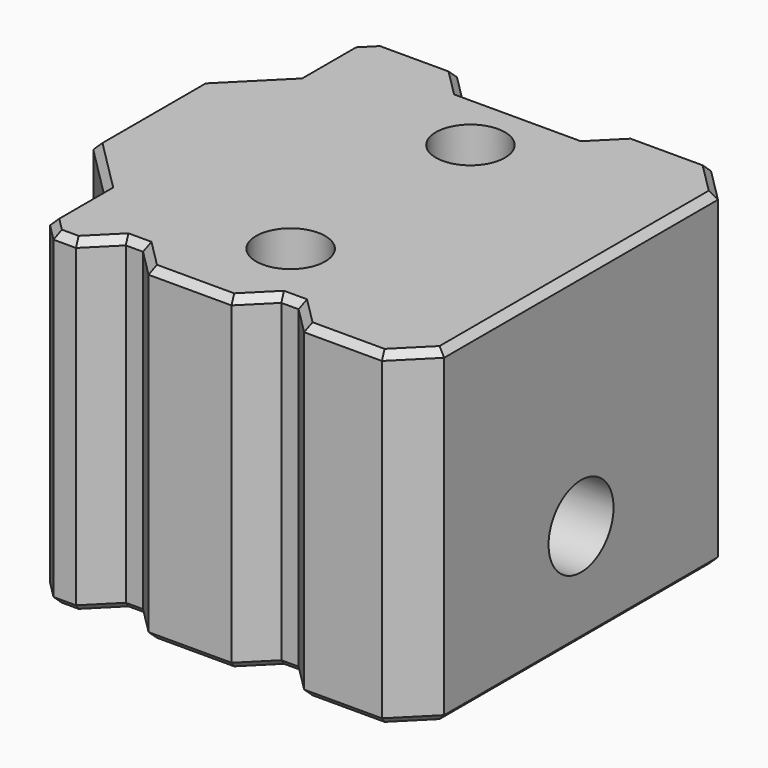
from build123d import *

# Parameters (mm, degrees)
CYLINDER015_R         = 2.35
CYLINDER015_DEPTH     = 33
CYLINDER016_R         = 4.35
CYLINDER016_DEPTH     = 1
CYLINDER017_R         = 4.35
CYLINDER017_DEPTH     = 1
CHAMFER003036_SIZE    = 0.85
CYLINDER021_R         = 2.5
CYLINDER021_DEPTH     = 10
CYLINDER019_R         = 2
CYLINDER019_DEPTH     = 10
CYLINDER018_R         = 2
CYLINDER018_DEPTH     = 10
CYLINDER020_R         = 2.5
CYLINDER020_DEPTH     = 10
BOX011_W              = 16
BOX011_H              = 18
BOX011_DEPTH          = 6
CYLINDER014_R         = 9
CYLINDER014_DEPTH     = 16
BOX014_W              = 4.2
BOX014_H              = 10
BOX014_DEPTH          = 22
BOX025_W              = 4.2
BOX025_H              = 10
BOX025_DEPTH          = 22
BOX013_W              = 10.2
BOX013_H              = 10
BOX013_DEPTH          = 22
CHAMFER003068003_SIZE = 1.6
BOX012_W              = 22
BOX012_H              = 23.8
BOX012_DEPTH          = 19
CHAMFER003068004_SIZE = 1
CHAMFER003068005_SIZE = 2
BOX037_W              = 5
BOX037_H              = 14
BOX037_DEPTH          = 19
CHAMFER003068011_SIZE = 3.1
CHAMFER003068012_SIZE = 0.4


with BuildPart() as cylinder015:
    # Cylinder015 → Cylinder015 (new body)
    with BuildSketch(Plane(origin=(31, 0, 6), x_dir=(0, 0, 1), z_dir=(-1, 0, 0))):
        Circle(CYLINDER015_R)
    extrude(amount=CYLINDER015_DEPTH)


with BuildPart() as cylinder016:
    # Cylinder016 → Cylinder016 (new body)
    with BuildSketch(Plane(origin=(23.15, 0, 6), x_dir=(0, 0, 1), z_dir=(-1, 0, 0))):
        Circle(CYLINDER016_R)
    extrude(amount=CYLINDER016_DEPTH)


with BuildPart() as chamfer003036:
    # Cylinder017 → Cylinder017 (new body)
    with BuildSketch(Plane(origin=(7.85, 0, 6), x_dir=(0, 0, 1), z_dir=(-1, 0, 0))):
        Circle(CYLINDER017_R)
    extrude(amount=CYLINDER017_DEPTH)

    # Fusion013005011005: union Cylinder016
    add(cylinder016.part)

    # Chamfer003036
    chamfer003036_edges = [chamfer003036.edges().sort_by_distance(p)[0] for p in [
        (7.85, 0, 1.65),
        (22.15, 0, 1.65),
    ]]
    chamfer(chamfer003036_edges, length=CHAMFER003036_SIZE)


with BuildPart() as cylinder021:
    # Cylinder021 → Cylinder021 (new body)
    with BuildSketch(Plane(origin=(15, 6.5, 3), x_dir=(1, 0, 0), z_dir=(0, 0, 1))):
        Circle(CYLINDER021_R)
    extrude(amount=CYLINDER021_DEPTH)


with BuildPart() as cylinder019:
    # Cylinder019 → Cylinder019 (new body)
    with BuildSketch(Plane(origin=(15, 6.5, 13), x_dir=(1, 0, 0), z_dir=(0, 0, 1))):
        Circle(CYLINDER019_R)
    extrude(amount=CYLINDER019_DEPTH)


with BuildPart() as fusion013005011029006008001003:
    # Cylinder018 → Cylinder018 (new body)
    with BuildSketch(Plane(origin=(15, -6.5, 13), x_dir=(1, 0, 0), z_dir=(0, 0, 1))):
        Circle(CYLINDER018_R)
    extrude(amount=CYLINDER018_DEPTH)

    # Fusion013005011029006008001003: union Cylinder019
    add(cylinder019.part)


with BuildPart() as cylinder020:
    # Cylinder020 → Cylinder020 (new body)
    with BuildSketch(Plane(origin=(15, -6.5, 3), x_dir=(1, 0, 0), z_dir=(0, 0, 1))):
        Circle(CYLINDER020_R)
    extrude(amount=CYLINDER020_DEPTH)


with BuildPart() as fusion013005011029006008001004:
    # Fusion013005011029006008001004 base: copy of Cylinder020
    add(cylinder020.part)

    # Fusion013005011029006008001004: union Cylinder021
    add(cylinder021.part)


with BuildPart() as fusion013005011029006008001005:
    # Fusion013005011029006008001005 base: copy of Cylinder020
    add(cylinder020.part)

    # Fusion013005011029006008001005: union Cylinder021, Fusion013005011029006008001003, Fusion013005011029006008001004
    add(cylinder021.part)
    add(fusion013005011029006008001003.part)
    add(fusion013005011029006008001004.part)


with BuildPart() as cube011:
    # Box011 → Box011 (new body)
    with BuildSketch(Plane(origin=(7, -9, 0), x_dir=(1, 0, 0), z_dir=(0, 0, 1))):
        with Locations((8, 9)):
            Rectangle(BOX011_W, BOX011_H)
    extrude(amount=BOX011_DEPTH)


with BuildPart() as fusion013005011004:
    # Cylinder014 → Cylinder014 (new body)
    with BuildSketch(Plane(origin=(23, 0, 6), x_dir=(0, 0, 1), z_dir=(-1, 0, 0))):
        Circle(CYLINDER014_R)
    extrude(amount=CYLINDER014_DEPTH)

    # Fusion013005011004: union Cube011
    add(cube011.part)


with BuildPart() as cube014:
    # Box014 → Box014 (new body)
    with BuildSketch(Plane(origin=(6.9, -20.3, 0), x_dir=(1, 0, 0), z_dir=(0, 0, 1))):
        with Locations((2.1, 5)):
            Rectangle(BOX014_W, BOX014_H)
    extrude(amount=BOX014_DEPTH)


with BuildPart() as cube023:
    # Box025 → Box025 (new body)
    with BuildSketch(Plane(origin=(15.9, -20.3, 0), x_dir=(1, 0, 0), z_dir=(0, 0, 1))):
        with Locations((2.1, 5)):
            Rectangle(BOX025_W, BOX025_H)
    extrude(amount=BOX025_DEPTH)


with BuildPart() as chamfer003068003:
    # Box013 → Box013 (new body)
    with BuildSketch(Plane(origin=(9.9, 10.3, 0), x_dir=(1, 0, 0), z_dir=(0, 0, 1))):
        with Locations((5.1, 5)):
            Rectangle(BOX013_W, BOX013_H)
    extrude(amount=BOX013_DEPTH)

    # Fusion013005011029006008001002: union Cube014, Cube023
    add(cube014.part)
    add(cube023.part)

    # Chamfer003068003
    chamfer003068003_edges = [chamfer003068003.edges().sort_by_distance(p)[0] for p in [
        (9.9, 10.3, 11),
        (20.1, 10.3, 11),
        (6.9, -10.3, 11),
        (11.1, -10.3, 11),
        (15.9, -10.3, 11),
        (20.1, -10.3, 11),
    ]]
    chamfer(chamfer003068003_edges, length=CHAMFER003068003_SIZE)


with BuildPart() as chamfer003068005:
    # Box012 → Box012 (new body)
    with BuildSketch(Plane(origin=(4.6, -11.9, 0), x_dir=(1, 0, 0), z_dir=(0, 0, 1))):
        with Locations((11, 11.9)):
            Rectangle(BOX012_W, BOX012_H)
    extrude(amount=BOX012_DEPTH)

    # Cut001001036003: cut Chamfer003068003
    add(chamfer003068003.part, mode=Mode.SUBTRACT)

    # Cut001001036004: cut Fusion013005011004
    add(fusion013005011004.part, mode=Mode.SUBTRACT)

    # Cut001001036005: cut Fusion013005011029006008001005
    add(fusion013005011029006008001005.part, mode=Mode.SUBTRACT)

    # Fusion013005011029006008001006: union Chamfer003036
    add(chamfer003036.part)

    # Chamfer003068004
    chamfer003068004_edges = [chamfer003068005.edges().sort_by_distance(p)[0] for p in [
        (4.6, -11.9, 9.5),
        (4.6, 11.9, 9.5),
    ]]
    chamfer(chamfer003068004_edges, length=CHAMFER003068004_SIZE)

    # Chamfer003068005
    chamfer003068005_edges = [chamfer003068005.edges().sort_by_distance(p)[0] for p in [
        (26.6, 11.9, 9.5),
        (26.6, -11.9, 9.5),
    ]]
    chamfer(chamfer003068005_edges, length=CHAMFER003068005_SIZE)


with BuildPart() as chamfer003068005_1:
    # Chamfer003068005 placement: moved
    add(chamfer003068005.part.moved(Location((0.5, 0, 0))))


with BuildPart() as chamfer003068012:
    # Box037 → Box037 (new body)
    with BuildSketch(Plane(origin=(2, -7, 0), x_dir=(1, 0, 0), z_dir=(0, 0, 1))):
        with Locations((2.5, 7)):
            Rectangle(BOX037_W, BOX037_H)
    extrude(amount=BOX037_DEPTH)

    # Chamfer003068011
    chamfer003068011_edges = [chamfer003068012.edges().sort_by_distance(p)[0] for p in [
        (2, -7, 9.5),
        (2, 7, 9.5),
    ]]
    chamfer(chamfer003068011_edges, length=CHAMFER003068011_SIZE)

    # Fusion013005011029006008001009: union Chamfer003068005
    add(chamfer003068005_1.part)

    # Cut001001036010002: cut Cylinder015
    add(cylinder015.part, mode=Mode.SUBTRACT)

    # Chamfer003068012
    chamfer003068012_edges = [chamfer003068012.edges().sort_by_distance(p)[0] for p in [
        (2, 0, 19),
        (2, 0, 0),
        (3.55, -5.45, 0),
        (3.55, -5.45, 19),
        (3.55, 5.45, 0),
        (3.55, 5.45, 19),
        (5.1, -8.95, 19),
        (5.1, -8.95, 0),
        (5.1, 8.95, 19),
        (5.1, 8.95, 0),
        (5.6, -11.4, 0),
        (5.6, -11.4, 19),
        (5.6, 11.4, 0),
        (5.6, 11.4, 19),
        (6.75, -11.9, 0),
        (6.75, -11.9, 19),
        (22.85, -11.9, 0),
        (22.85, -11.9, 19),
        (19.8, -11.1, 0),
        (19.8, -11.1, 19),
        (18.5, -10.3, 0),
        (18.5, -10.3, 19),
        (17.2, -11.1, 0),
        (17.2, -11.1, 19),
        (14, -11.9, 0),
        (14, -11.9, 19),
        (10.8, -11.1, 0),
        (10.8, -11.1, 19),
        (9.5, -10.3, 0),
        (9.5, -10.3, 19),
        (8.2, -11.1, 0),
        (8.2, -11.1, 19),
        (8.25, 11.9, 0),
        (8.25, 11.9, 19),
        (11.2, 11.1, 0),
        (11.2, 11.1, 19),
        (15.5, 10.3, 0),
        (15.5, 10.3, 19),
        (19.8, 11.1, 0),
        (19.8, 11.1, 19),
        (22.85, 11.9, 0),
        (22.85, 11.9, 19),
        (26.1, 10.9, 0),
        (26.1, 10.9, 19),
        (27.1, 0, 19),
        (27.1, 0, 0),
        (26.1, -10.9, 0),
        (26.1, -10.9, 19),
        (23.5, 0, 0),
        (15.5, 9, 0),
        (7.5, 0, 0),
        (15.5, -9, 0),
    ]]
    chamfer(chamfer003068012_edges, length=CHAMFER003068012_SIZE)


solid = chamfer003068012.part
